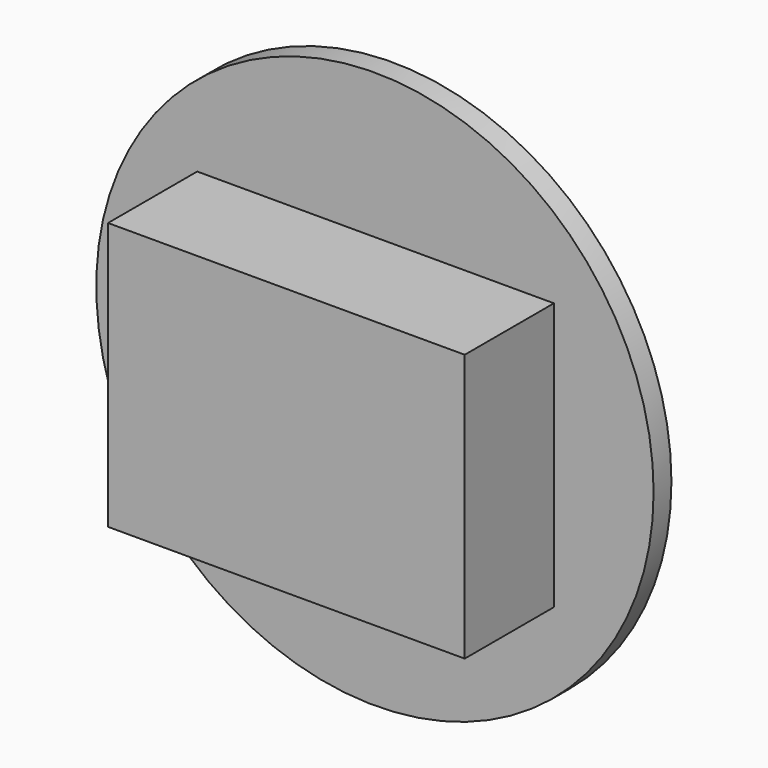
from build123d import *

# Parameters (mm, degrees)
F0_R     = 31.75
F0_W     = 40.64
F0_H     = 30.48
F1_DEPTH = 2.54
F2_DEPTH = 15.24


with BuildPart() as f1:
    # F0 (on Front) → F1 (new body)
    with BuildSketch(Plane.XZ):
        Circle(F0_R)
        with Locations((0.068977, 0)):
            Rectangle(F0_W, F0_H, mode=Mode.SUBTRACT)
    extrude(amount=F1_DEPTH)

    # F0 (on Front) → F2 (join)
    with BuildSketch(Plane.XZ):
        with Locations((0.068977, 0)):
            Rectangle(F0_W, F0_H)
    extrude(amount=F2_DEPTH)


solid = f1.part
